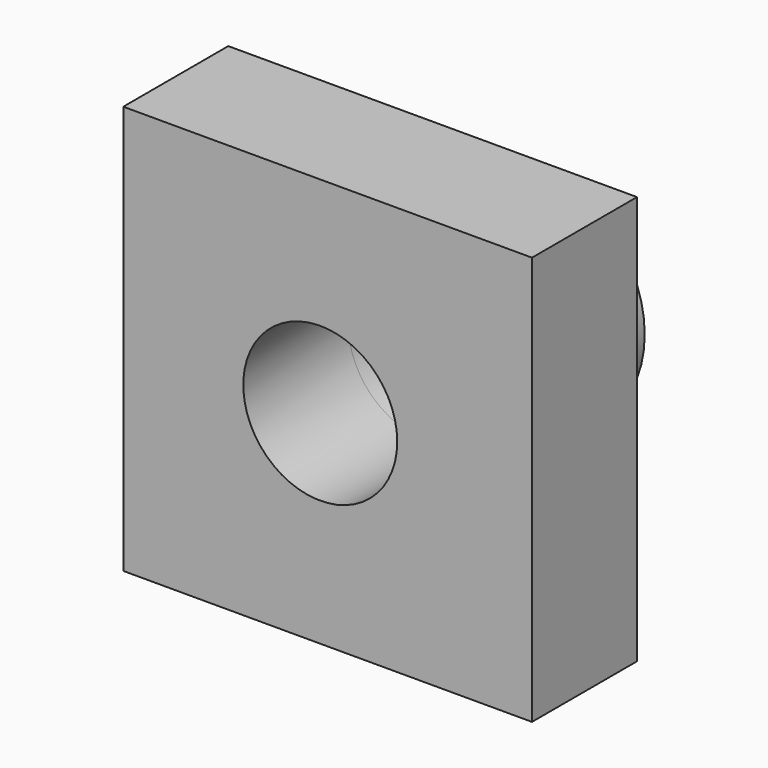
from build123d import *

# Parameters (mm, degrees)
F0_W     = 79.103634
F0_H     = 79.10363
F0_R     = 22.158127
F0_R_2   = 14.900496
F1_DEPTH = 25.4
F2_DEPTH = 25.4
F3_DEPTH = 25.401


with BuildPart() as f1:
    # F0 (on Front) → F1 (new body)
    with BuildSketch(Plane.XZ):
        with Locations((1.427859, 0.285575)):
            Rectangle(F0_W, F0_H)
        Circle(F0_R, mode=Mode.SUBTRACT)
        Circle(F0_R_2)
        Circle(F0_R)
        Circle(F0_R_2, mode=Mode.SUBTRACT)
    extrude(amount=F1_DEPTH)

    # F0 (on Front) → F2 (join)
    with BuildSketch(Plane.XZ):
        Circle(F0_R)
        Circle(F0_R_2, mode=Mode.SUBTRACT)
    extrude(amount=-F2_DEPTH)

    # F0 (on Front) → F3 (cut, through all)
    with BuildSketch(Plane.XZ):
        Circle(F0_R_2)
    extrude(amount=F3_DEPTH, mode=Mode.SUBTRACT)


solid = f1.part
